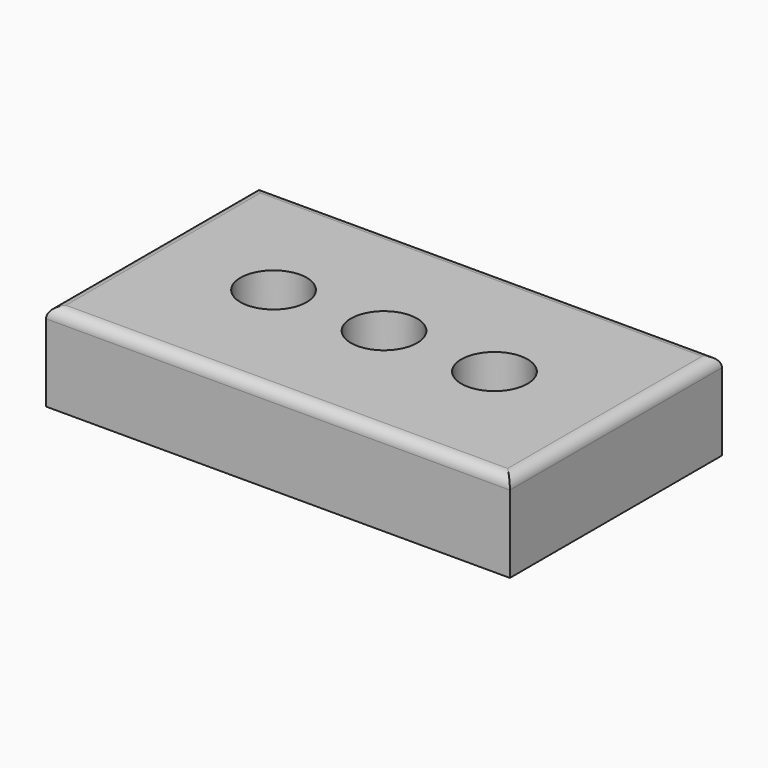
from build123d import *

# Parameters (mm, degrees)
F0_W     = 105
F0_H     = 60
F1_DEPTH = 20
F2_R     = 7.5
F3_DEPTH = 15
F4_R     = 2.5


with BuildPart() as f1:
    # F0 (on Top) → F1 (new body)
    with BuildSketch(Plane.XY):
        Rectangle(F0_W, F0_H)
    extrude(amount=F1_DEPTH)

    # F2 (on face) → F3 (cut)
    with BuildSketch(Plane.XY.offset(20)):
        with Locations((-25, 0)):
            Circle(F2_R)
        with Locations((25, 0)):
            Circle(F2_R)
        Circle(F2_R)
    extrude(amount=-F3_DEPTH, mode=Mode.SUBTRACT)

    # F4
    f4_edges = [f1.edges().sort_by_distance(p)[0] for p in [
        (-52.5, 0, 20),
        (0, 30, 20),
        (52.5, 0, 20),
        (0, -30, 20),
    ]]
    fillet(f4_edges, radius=F4_R)


solid = f1.part
